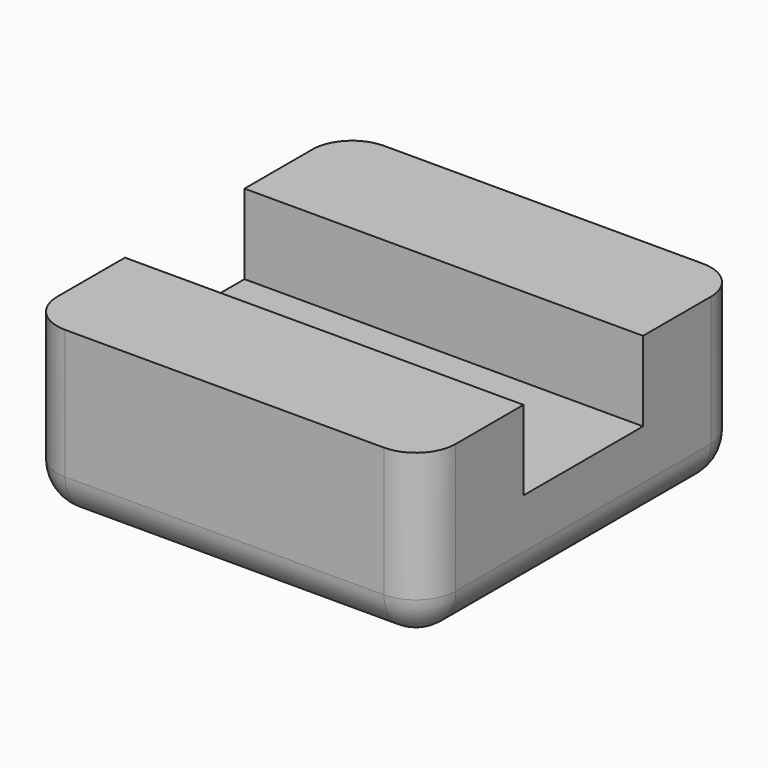
from build123d import *

# Parameters (mm, degrees)
SKETCH003_W  = 200
SKETCH003_H  = 200
PAD003_DEPTH = 45
SKETCH009_W  = 200
SKETCH009_H  = 62.5
PAD009_DEPTH = 40
FILLET005_R  = 20


with BuildPart() as part:
    # Sketch003 (on Face1 of CopyPad002) → Pad003 (new body)
    with BuildSketch(Plane.XY.offset(370)):
        Rectangle(SKETCH003_W, SKETCH003_H)
    extrude(amount=PAD003_DEPTH)

    # Sketch009 (on Face6 of Pad003) → Pad009 (join)
    with BuildSketch(Plane.XY.offset(415)):
        with Locations((0, 68.75)):
            Rectangle(SKETCH009_W, SKETCH009_H)
        with Locations((0, -68.75)):
            Rectangle(SKETCH009_W, SKETCH009_H)
    extrude(amount=PAD009_DEPTH)

    # Fillet005
    fillet005_edges = [part.edges().sort_by_distance(p)[0] for p in [
        (-100, -100, 412.5),
        (100, -100, 412.5),
        (100, 100, 412.5),
        (-100, 100, 412.5),
        (0, -100, 370),
        (100, 0, 370),
        (-100, 0, 370),
        (0, 100, 370),
    ]]
    fillet(fillet005_edges, radius=FILLET005_R)


solid = part.part
